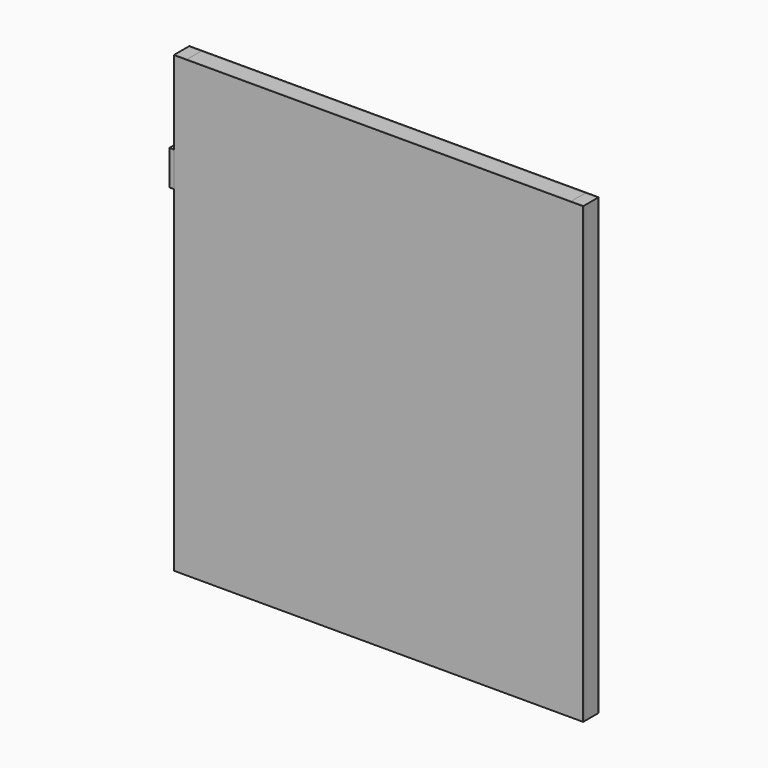
from build123d import *

# Parameters (mm, degrees)
F0_W     = 915
F0_H     = 1015
F1_DEPTH = 43.25
F2_DEPTH = 2.81
F3_DEPTH = 2.81
F4_W     = 10
F4_H     = 78
F5_DEPTH = 43
F6_W     = 28
F6_H     = 37.63
F7_DEPTH = 1015


with BuildPart() as f1:
    # F0 (on Front) → F1 (new body)
    with BuildSketch(Plane.XZ):
        Rectangle(F0_W, F0_H)
    extrude(amount=F1_DEPTH)


with BuildPart() as f2:
    # F2 (new): a face of the model
    f2_faces = [f1.part.faces().sort_by_distance(p)[0] for p in [
        (0, -43.25, 0),
    ]]
    extrude(f2_faces, amount=-F2_DEPTH)


with BuildPart() as f3:
    # F3 (new): a face of the model
    f3_faces = [f1.part.faces().sort_by_distance(p)[0] for p in [
        (0, 0, 0),
    ]]
    extrude(f3_faces, amount=-F3_DEPTH)


with BuildPart() as f5:
    # F4 (on face) → F5 (new body)
    with BuildSketch(Plane.XZ.offset(43.25)):
        with Locations((-462.5, 282.5)):
            Rectangle(F4_W, F4_H)
    extrude(amount=-F5_DEPTH)


with BuildPart() as f7:
    # F6 (on face) → F7 (new body, through all)
    with BuildSketch(Plane.XY.offset(507.5)):
        with Locations((443.5, -21.625)):
            Rectangle(F6_W, F6_H)
    extrude(amount=-F7_DEPTH)


with BuildPart() as f7b:
    # F6 (on face) → F7, piece 2 (new body, through all)
    with BuildSketch(Plane.XY.offset(507.5)):
        with Locations((-443.5, -21.625)):
            Rectangle(F6_W, F6_H)
    extrude(amount=-F7_DEPTH)


solid = Compound([f1.part, f2.part, f3.part, f5.part, f7.part, f7b.part])
